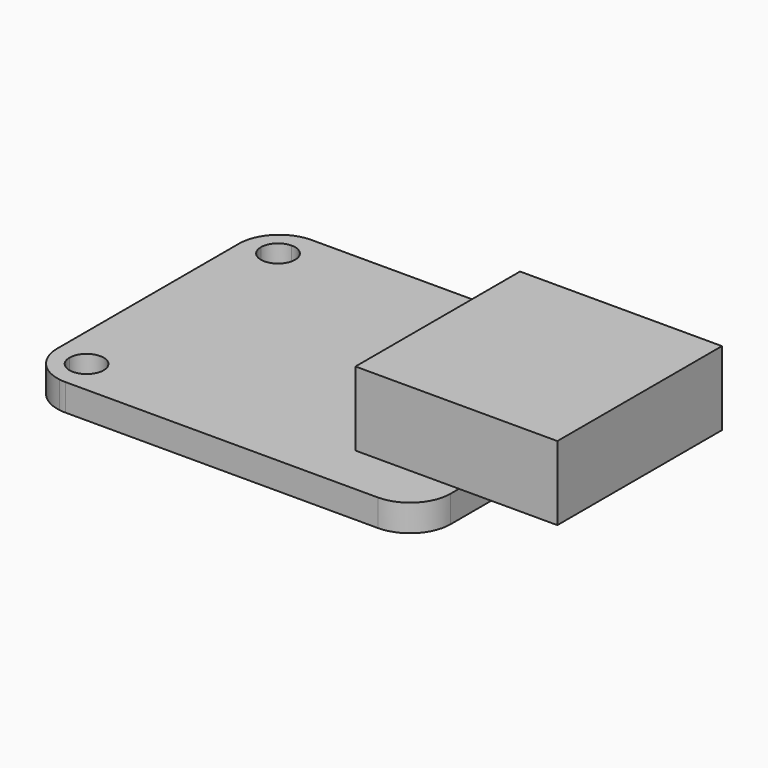
from build123d import *

# Parameters (mm, degrees)
F1_DEPTH = 2
F3_W     = 7.308394351
F3_H     = 15.2815315841
F3_W_2   = 7.691605649
F4_DEPTH = 5.5


with BuildPart() as f1:
    # F0 (on Top) → F1 (new body)
    with BuildSketch(Plane.XY):
        with BuildLine():
            ThreePointArc((2.54, 0.0354764295), (2.7693170048, 0.0088822565), (3, 0))
            Line((3, 0), (26.21, 0))
            ThreePointArc((26.21, 0), (28.3313203436, 0.8786796564), (29.21, 3))
            Line((29.21, 3), (29.21, 19.86))
            ThreePointArc((29.21, 19.86), (28.3313203436, 21.9813203436), (26.21, 22.86))
            Line((26.21, 22.86), (3, 22.86))
            ThreePointArc((3, 22.86), (2.7693170048, 22.8511177435), (2.54, 22.8245235705))
            Line((2.54, 22.8245235705), (2.54, 21.59))
            ThreePointArc((2.54, 21.59), (3.4380256121, 21.2180256121), (3.81, 20.32))
            ThreePointArc((3.81, 20.32), (2.54, 19.05), (1.27, 20.32))
            Line((1.27, 20.32), (0.0354764295, 20.32))
            ThreePointArc((0.0354764295, 20.32), (0.0088822565, 20.0906829952), (0, 19.86))
            Line((0, 19.86), (0, 3))
            ThreePointArc((0, 3), (0.0088822565, 2.7693170048), (0.0354764295, 2.54))
            Line((0.0354764295, 2.54), (1.27, 2.54))
            ThreePointArc((1.27, 2.54), (2.54, 3.81), (3.81, 2.54))
            ThreePointArc((3.81, 2.54), (3.4380256121, 1.6419743879), (2.54, 1.27))
            Line((2.54, 1.27), (2.54, 0.0354764295))
        make_face()
        with BuildLine():
            ThreePointArc((2.54, 22.8245235705), (0.8786796564, 21.9813203436), (0.0354764295, 20.32))
            Line((0.0354764295, 20.32), (1.27, 20.32))
            ThreePointArc((1.27, 20.32), (1.6419743879, 21.2180256121), (2.54, 21.59))
            Line((2.54, 21.59), (2.54, 22.8245235705))
        make_face()
        with BuildLine():
            ThreePointArc((0.0354764295, 2.54), (0.8786796564, 0.8786796564), (2.54, 0.0354764295))
            Line((2.54, 0.0354764295), (2.54, 1.27))
            ThreePointArc((2.54, 1.27), (1.6419743879, 1.6419743879), (1.27, 2.54))
            Line((1.27, 2.54), (0.0354764295, 2.54))
        make_face()
    extrude(amount=F1_DEPTH)

    # F3 (on face) → F4 (join)
    with BuildSketch(Plane.XY.offset(2)):
        with Locations((32.8641971755, 11.43)):
            Rectangle(F3_W, F3_H)
        with Locations((25.3641971755, 11.43)):
            Rectangle(F3_W_2, F3_H)
    extrude(amount=F4_DEPTH)


solid = f1.part
